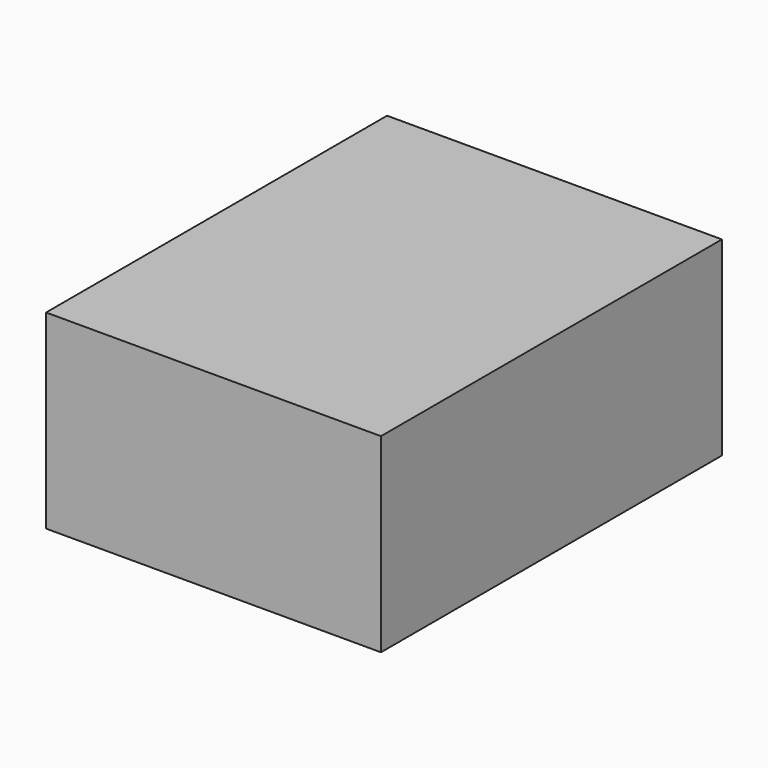
from build123d import *

# Parameters (mm, degrees)
F0_W     = 440
F0_H     = 250
F0_W_2   = 434
F0_H_2   = 244
F1_DEPTH = 277
F2_W     = 440
F2_H     = 250
F3_DEPTH = 3
F4_W     = 440
F4_H     = 250
F5_DEPTH = 3


with BuildPart() as f1:
    # F0 (on Front) → F1 (new body, symmetric)
    with BuildSketch(Plane.XZ):
        with Locations((0, 125)):
            Rectangle(F0_W, F0_H)
        with Locations((0, 125)):
            Rectangle(F0_W_2, F0_H_2, mode=Mode.SUBTRACT)
    extrude(amount=F1_DEPTH, both=True)

    # F2 (on face) → F3 (join)
    with BuildSketch(Plane.XZ.offset(277)):
        with Locations((0, 125)):
            Rectangle(F2_W, F2_H)
    extrude(amount=F3_DEPTH)

    # F4 (on face) → F5 (join)
    with BuildSketch(Plane(origin=(0, 277, 0), x_dir=(-1, 0, 0), z_dir=(0, 1, 0))):
        with Locations((0, 125)):
            Rectangle(F4_W, F4_H)
    extrude(amount=F5_DEPTH)


solid = f1.part
